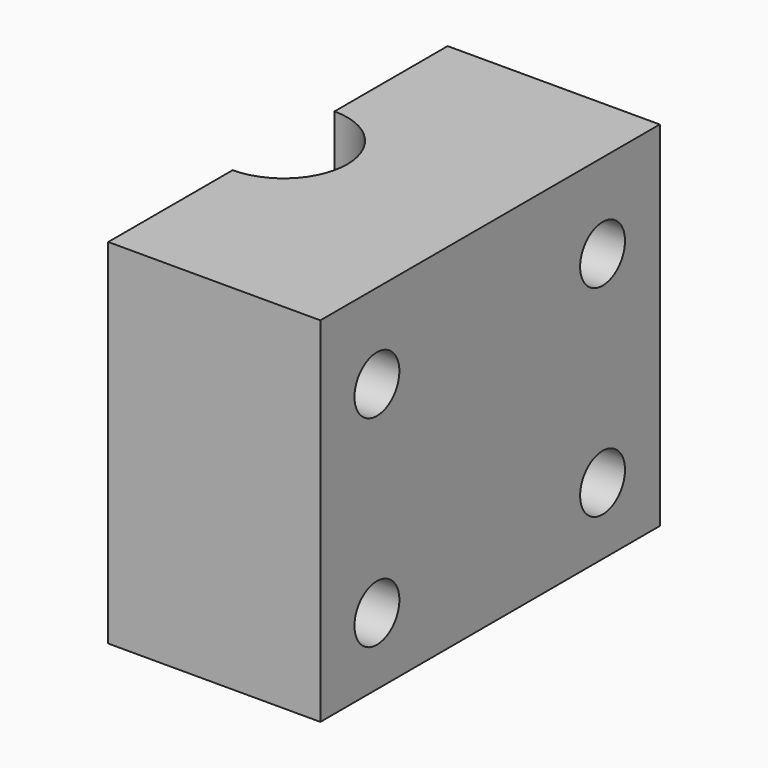
from build123d import *

# Parameters (mm, degrees)
F1_DEPTH = 50
F3_D     = 7.9375


with BuildPart() as f1:
    # F0 (on Top) → F1 (new body)
    with BuildSketch(Plane.XY):
        with BuildLine():
            ThreePointArc((0, 9), (9, 0), (0, -9))
            Line((0, -9), (0, -31))
            Line((0, -31), (30, -31))
            Line((30, -31), (30, 29))
            Line((30, 29), (0, 29))
            Line((0, 29), (0, 9))
        make_face()
    extrude(amount=F1_DEPTH)

    # F3 (through all)
    with Locations(Plane.YZ.offset(30)):
        with Locations((-21, 38), (-21, 9.508006103), (18.8892395088, 38), (18.8892395088, 9.508006103)):
            Hole(F3_D / 2)


solid = f1.part
